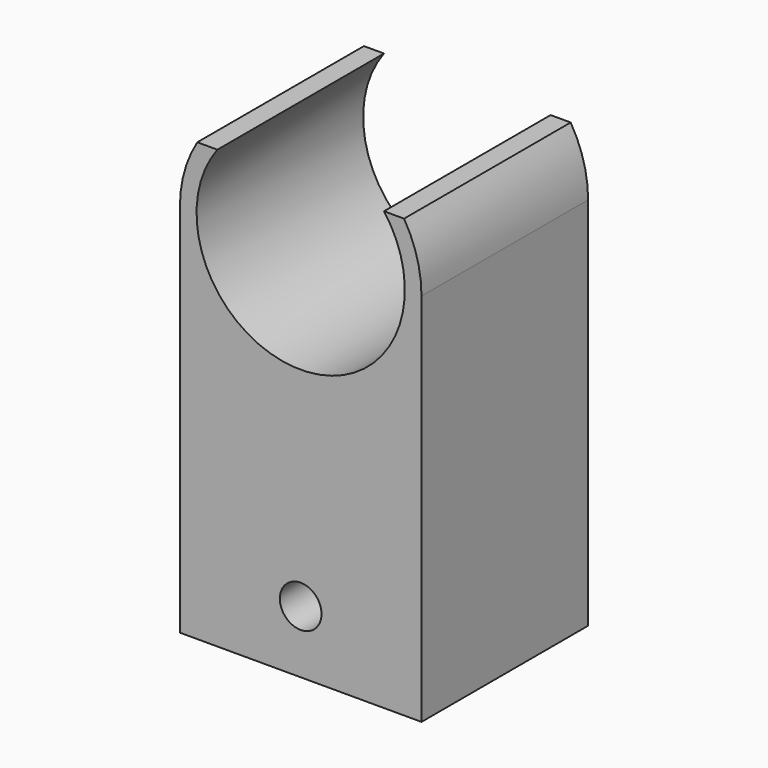
from build123d import *

# Parameters (mm, degrees)
F0_R     = 2.5
F1_DEPTH = 25


with BuildPart() as f1:
    # F0 (on Front) → F1 (new body)
    with BuildSketch(Plane.XZ):
        with BuildLine():
            ThreePointArc((10, 7.5), (0, -12.5), (-10, 7.5))
            Line((-10, 7.5), (-12.409674, 7.5))
            ThreePointArc((-12.409674, 7.5), (-13.967646, 3.892925), (-14.5, 0))
            Line((-14.5, 0), (-14.5, -45))
            Line((-14.5, -45), (14.5, -45))
            Line((14.5, -45), (14.5, 0))
            ThreePointArc((14.5, 0), (13.967646, 3.892925), (12.409674, 7.5))
            Line((12.409674, 7.5), (10, 7.5))
        make_face()
        with Locations((0, -37.5)):
            Circle(F0_R, mode=Mode.SUBTRACT)
    extrude(amount=F1_DEPTH)


solid = f1.part
